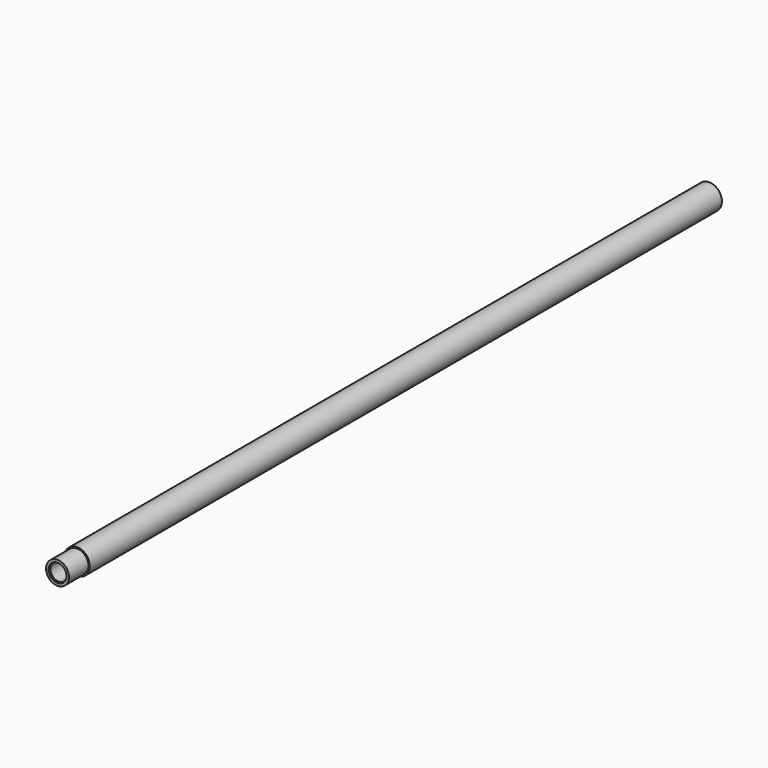
from build123d import *

# Parameters (mm, degrees)
F0_R      = 15.875
F1_DEPTH  = 1016
F2_R      = 11.176
F3_DEPTH  = 1.8796
F4_R      = 10.3505
F5_DEPTH  = 76.2
F6_R      = 9.2583
F7_DEPTH  = 1016.001
F8_R      = 0.508
F9_R      = 15.875
F9_R_2    = 14.2875
F10_DEPTH = 30.48
F11_SIZE  = 1.016


with BuildPart() as f1:
    # F0 (on Front) → F1 (new body)
    with BuildSketch(Plane.XZ):
        Circle(F0_R)
    extrude(amount=F1_DEPTH)

    # F2 (on face) → F3 (cut)
    with BuildSketch(Plane.XZ.offset(1016)):
        Circle(F2_R)
    extrude(amount=-F3_DEPTH, mode=Mode.SUBTRACT)

    # F4 (on face) → F5 (cut)
    with BuildSketch(Plane.XZ.offset(1016)):
        Circle(F4_R)
    extrude(amount=-F5_DEPTH, mode=Mode.SUBTRACT)

    # F6 (on face) → F7 (cut, through all)
    with BuildSketch(Plane.XZ.offset(1016)):
        Circle(F6_R)
    extrude(amount=-F7_DEPTH, mode=Mode.SUBTRACT)

    # F8
    f8_edges = [f1.edges().sort_by_distance(p)[0] for p in [
        (-11.176, -1014.1204, 0),
    ]]
    fillet(f8_edges, radius=F8_R)

    # F9 (on face) → F10 (cut)
    with BuildSketch(Plane.XZ.offset(1016)):
        Circle(F9_R)
        Circle(F9_R_2, mode=Mode.SUBTRACT)
    extrude(amount=-F10_DEPTH, mode=Mode.SUBTRACT)

    # F11
    f11_edges = [f1.edges().sort_by_distance(p)[0] for p in [
        (-9.2583, -939.8, 0),
    ]]
    chamfer(f11_edges, length=F11_SIZE)


solid = f1.part
